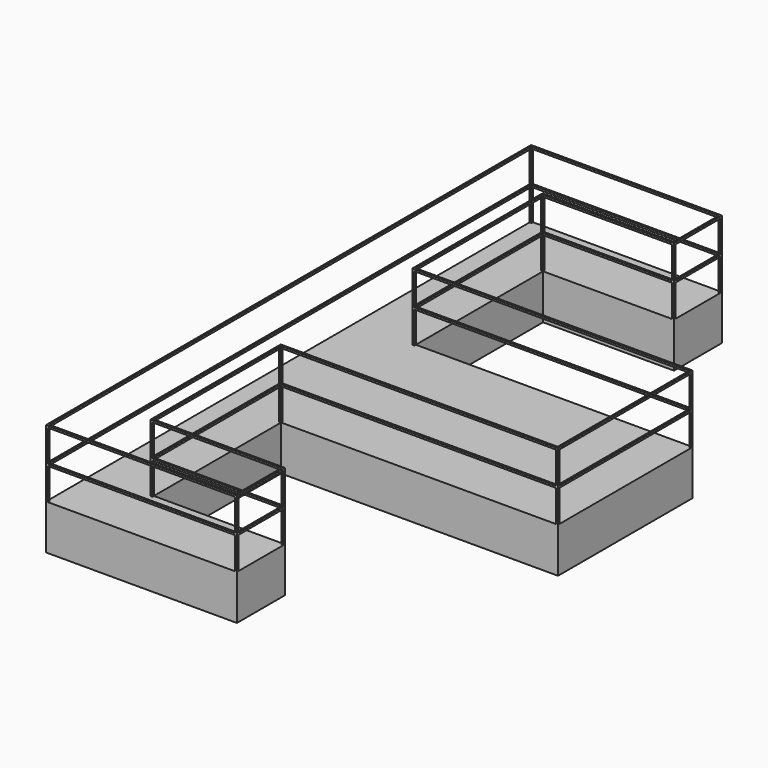
from build123d import *

# Parameters (mm, degrees)
F1_DEPTH  = 609.6
F3_DEPTH  = 914.4
F4_W      = 8178.8
F4_H      = 431.8
F5_DEPTH  = 50.8
F6_W      = 2540
F6_H      = 431.8
F7_DEPTH  = 76.2
F8_W      = 3733.8
F8_H      = 431.8
F9_DEPTH  = 76.2
F10_W     = 2235.2
F10_H     = 431.8
F11_DEPTH = 76.2
F12_W     = 2540
F12_H     = 431.8
F13_DEPTH = 76.2
F14_W     = 762
F14_H     = 431.8
F15_DEPTH = 76.2
F16_W     = 2159
F16_H     = 431.8
F17_DEPTH = 76.2
F18_W     = 1752.6
F18_H     = 431.8
F19_DEPTH = 76.2
F20_W     = 1752.6
F20_H     = 431.8
F21_DEPTH = 50.8
F22_W     = 762
F22_H     = 431.8
F23_DEPTH = 25.4
F24_W     = 2159
F24_H     = 431.8
F25_DEPTH = 25.4
F26_W     = 3733.8
F26_H     = 431.8
F27_DEPTH = 25.4


with BuildPart() as f1:
    # F0 (on Top) → F1 (new body)
    with BuildSketch(Plane.XY):
        Polygon((0, -2159), (0, 0), (3759.2, 0), (3759.2, 2286), (0, 2286), (0, 4445), (1778, 4445), (1778, 5257.8), (-812.8, 5257.8), (-812.8, -2971.8), (1778, -2971.8), (1778, -2159), align=None)
    extrude(amount=F1_DEPTH)

    # F2 (on face) → F3 (join)
    with BuildSketch(Plane.XY.offset(609.6)):
        Polygon((-812.8, -2971.8), (1778, -2971.8), (1778, -2159), (0, -2159), (0, 0), (3759.2, 0), (3759.2, 2286), (0, 2286), (0, 4445), (1778, 4445), (1778, 5257.8), (-812.8, 5257.8), align=None)
        Polygon((1752.6, -2946.4), (-787.4, -2946.4), (-787.4, 5232.4), (1752.6, 5232.4), (1752.6, 4470.4), (-25.4, 4470.4), (-25.4, 2260.6), (3733.8, 2260.6), (3733.8, 25.4), (-25.4, 25.4), (-25.4, -2184.4), (1752.6, -2184.4), align=None, mode=Mode.SUBTRACT)
    extrude(amount=F3_DEPTH)

    # F4 (on face) → F5 (cut)
    with BuildSketch(Plane(origin=(-812.8, 0, 0), x_dir=(0, -1, 0), z_dir=(-1, 0, 0))):
        with Locations((-1143, 1282.7)):
            Rectangle(F4_W, F4_H)
        with Locations((-1143, 825.5)):
            Rectangle(F4_W, F4_H)
    extrude(amount=-F5_DEPTH, mode=Mode.SUBTRACT)

    # F6 (on face) → F7 (cut)
    with BuildSketch(Plane.XZ.offset(2971.8)):
        with Locations((482.6, 1282.7)):
            Rectangle(F6_W, F6_H)
        with Locations((482.6, 825.5)):
            Rectangle(F6_W, F6_H)
    extrude(amount=-F7_DEPTH, mode=Mode.SUBTRACT)

    # F8 (on face) → F9 (cut)
    with BuildSketch(Plane(origin=(0, 2286, 0), x_dir=(-1, 0, 0), z_dir=(0, 1, 0))):
        with Locations((-1866.9, 1282.7)):
            Rectangle(F8_W, F8_H)
        with Locations((-1866.9, 825.5)):
            Rectangle(F8_W, F8_H)
    extrude(amount=-F9_DEPTH, mode=Mode.SUBTRACT)

    # F10 (on face) → F11 (cut)
    with BuildSketch(Plane.YZ.offset(3759.2)):
        with Locations((1143, 1282.7)):
            Rectangle(F10_W, F10_H)
        with Locations((1143, 825.5)):
            Rectangle(F10_W, F10_H)
    extrude(amount=-F11_DEPTH, mode=Mode.SUBTRACT)

    # F12 (on face) → F13 (cut)
    with BuildSketch(Plane(origin=(0, 5257.8, 0), x_dir=(-1, 0, 0), z_dir=(0, 1, 0))):
        with Locations((-482.6, 1282.7)):
            Rectangle(F12_W, F12_H)
        with Locations((-482.6, 825.5)):
            Rectangle(F12_W, F12_H)
    extrude(amount=-F13_DEPTH, mode=Mode.SUBTRACT)

    # F14 (on face) → F15 (cut)
    with BuildSketch(Plane.YZ.offset(1778)):
        with Locations((4851.4, 1282.7)):
            Rectangle(F14_W, F14_H)
        with Locations((4851.4, 825.5)):
            Rectangle(F14_W, F14_H)
    extrude(amount=-F15_DEPTH, mode=Mode.SUBTRACT)

    # F16 (on face) → F17 (cut)
    with BuildSketch(Plane.YZ):
        with Locations((3365.5, 1282.7)):
            Rectangle(F16_W, F16_H)
        with Locations((3365.5, 825.5)):
            Rectangle(F16_W, F16_H)
    extrude(amount=-F17_DEPTH, mode=Mode.SUBTRACT)

    # F18 (on face) → F19 (cut)
    with BuildSketch(Plane.XZ.offset(-4445)):
        with Locations((876.3, 1282.7)):
            Rectangle(F18_W, F18_H)
        with Locations((876.3, 825.5)):
            Rectangle(F18_W, F18_H)
    extrude(amount=-F19_DEPTH, mode=Mode.SUBTRACT)

    # F20 (on face) → F21 (cut)
    with BuildSketch(Plane(origin=(0, -2159, 0), x_dir=(-1, 0, 0), z_dir=(0, 1, 0))):
        with Locations((-876.3, 1282.7)):
            Rectangle(F20_W, F20_H)
        with Locations((-876.3, 825.5)):
            Rectangle(F20_W, F20_H)
    extrude(amount=-F21_DEPTH, mode=Mode.SUBTRACT)

    # F22 (on face) → F23 (cut)
    with BuildSketch(Plane.YZ.offset(1778)):
        with Locations((-2565.4, 1282.7)):
            Rectangle(F22_W, F22_H)
        with Locations((-2565.4, 825.5)):
            Rectangle(F22_W, F22_H)
    extrude(amount=-F23_DEPTH, mode=Mode.SUBTRACT)

    # F24 (on face) → F25 (cut)
    with BuildSketch(Plane.YZ):
        with Locations((-1079.5, 1282.7)):
            Rectangle(F24_W, F24_H)
        with Locations((-1079.5, 825.5)):
            Rectangle(F24_W, F24_H)
    extrude(amount=-F25_DEPTH, mode=Mode.SUBTRACT)

    # F26 (on face) → F27 (cut)
    with BuildSketch(Plane.XZ):
        with Locations((1866.9, 1282.7)):
            Rectangle(F26_W, F26_H)
        with Locations((1866.9, 825.5)):
            Rectangle(F26_W, F26_H)
    extrude(amount=-F27_DEPTH, mode=Mode.SUBTRACT)


solid = f1.part
